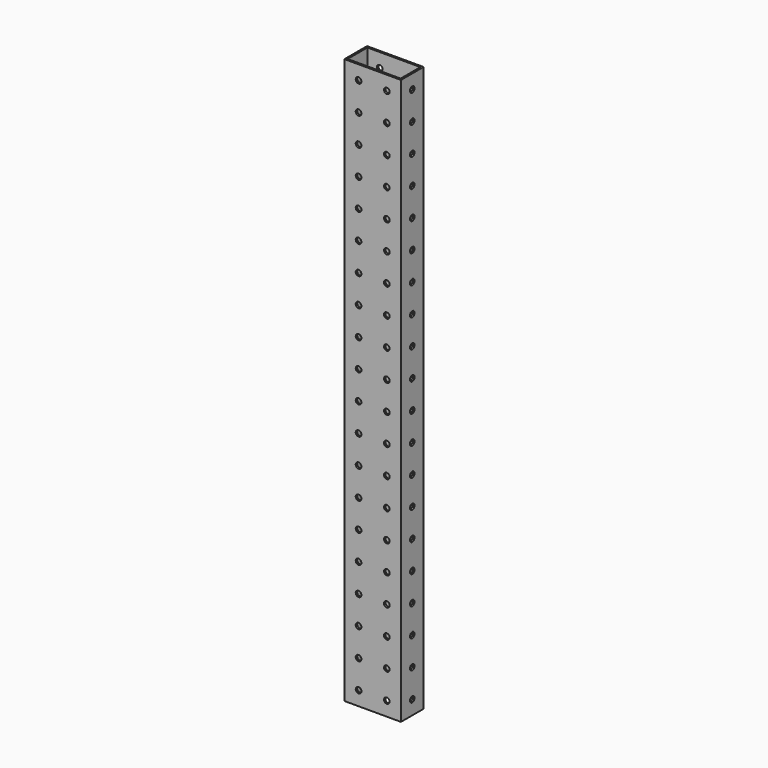
from build123d import *

# Parameters (mm, degrees)
F0_W     = 50.8
F0_H     = 25.4
F0_W_2   = 47.625
F0_H_2   = 22.225
F1_DEPTH = 508
F3_D     = 5.1054
F5_D     = 5.1054


with BuildPart() as f1:
    # F0 (on Top) → F1 (new body)
    with BuildSketch(Plane.XY):
        Rectangle(F0_W, F0_H)
        Rectangle(F0_W_2, F0_H_2, mode=Mode.SUBTRACT)
    extrude(amount=F1_DEPTH)

    # F3 (through all)
    with Locations(Plane.XZ.offset(12.7)):
        with Locations((-12.7, 317.5), (-12.7, 342.9), (12.7, 342.9), (12.7, 317.5), (12.7, 292.1), (12.7, 266.7), (-12.7, 266.7), (-12.7, 292.1), (12.7, 114.3), (-12.7, 114.3), (-12.7, 139.7), (12.7, 139.7), (12.7, 165.1), (-12.7, 165.1), (-12.7, 190.5), (12.7, 190.5), (-12.7, 215.9), (12.7, 241.3), (-12.7, 241.3), (12.7, 215.9), (-12.7, 419.1), (-12.7, 469.9), (12.7, 469.9), (12.7, 419.1), (12.7, 444.5), (-12.7, 444.5), (-12.7, 393.7), (12.7, 393.7), (12.7, 368.3), (-12.7, 368.3), (12.7, 63.5), (12.7, 88.9), (12.7, 12.7), (12.7, 38.1), (-12.7, 12.7), (-12.7, 38.1), (-12.7, 63.5), (-12.7, 88.9), (-12.7, 495.3), (12.7, 495.3)):
            Hole(F3_D / 2)

    # F5 (through all)
    with Locations(Plane.YZ.offset(25.4)):
        with Locations((0, 38.1), (0, 12.7), (0, 88.9), (0, 63.5), (0, 215.9), (0, 190.5), (0, 165.1), (0, 139.7), (0, 114.3), (0, 444.5), (0, 469.9), (0, 419.1), (0, 317.5), (0, 342.9), (0, 368.3), (0, 393.7), (0, 266.7), (0, 292.1), (0, 241.3), (0, 495.3)):
            Hole(F5_D / 2)


solid = f1.part
